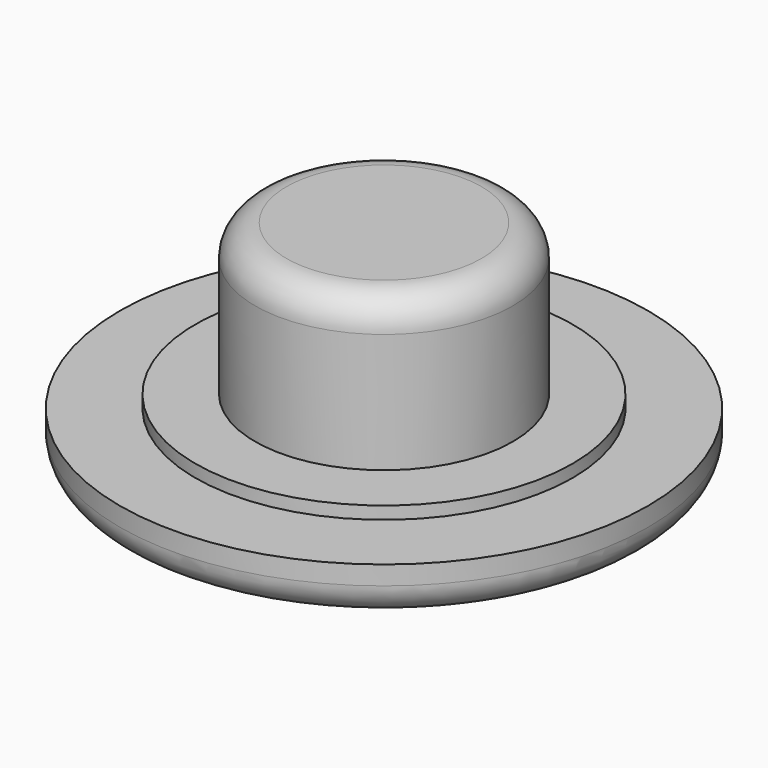
from build123d import *

# Parameters (mm, degrees)
F0_R     = 2.5625
F1_DEPTH = 4.25
F0_R_2   = 3.75
F2_DEPTH = 1.25
F0_R_3   = 5.25
F3_DEPTH = 1
F4_R     = 0.625


with BuildPart() as f1:
    # F0 (on Top) → F1 (new body)
    with BuildSketch(Plane.XY):
        Circle(F0_R)
    extrude(amount=F1_DEPTH)

    # F0 (on Top) → F2 (join)
    with BuildSketch(Plane.XY):
        Circle(F0_R_2)
        Circle(F0_R, mode=Mode.SUBTRACT)
    extrude(amount=F2_DEPTH)

    # F0 (on Top) → F3 (join)
    with BuildSketch(Plane.XY):
        Circle(F0_R_3)
        Circle(F0_R_2, mode=Mode.SUBTRACT)
    extrude(amount=F3_DEPTH)

    # F4
    f4_edges = [f1.edges().sort_by_distance(p)[0] for p in [
        (-5.25, 0, 0),
        (-2.5625, 0, 4.25),
    ]]
    fillet(f4_edges, radius=F4_R)


solid = f1.part
